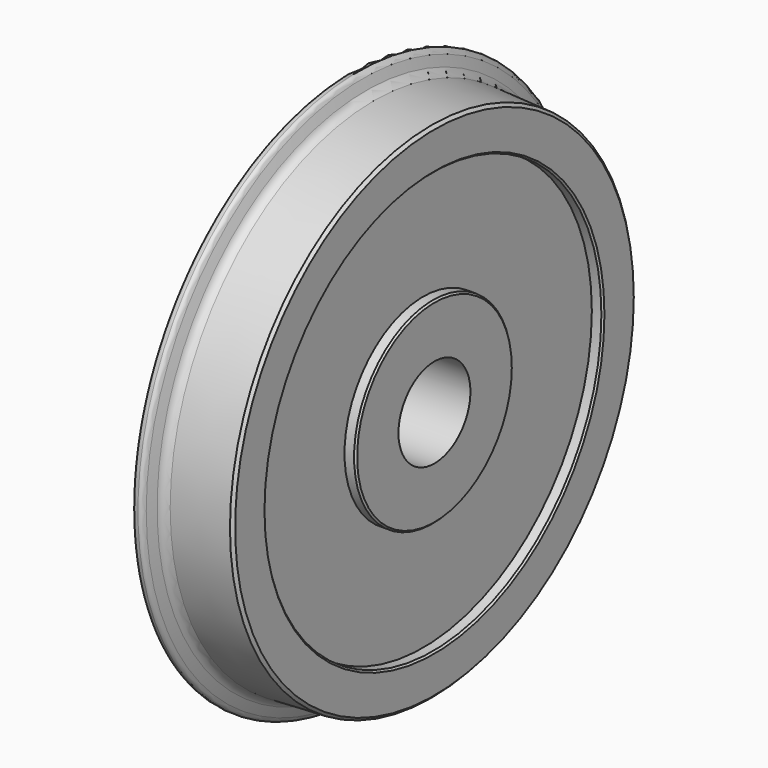
from build123d import *

# Parameters (mm, degrees)
F2_SIZE = 0.5
F4_D    = 16
F5_SIZE = 0.3


with BuildPart() as f1:
    # F0 (on Top) → F1 (revolve)
    with BuildSketch(Plane.XY):
        with BuildLine():
            Line((0, 17.5), (0, 0))
            Line((0, 0), (15, 0))
            Line((15, 0), (15, 17.5))
            Line((15, 17.5), (13, 17.5))
            Line((13, 17.5), (13, 37.5))
            Line((13, 37.5), (15, 37.5))
            Line((15, 37.5), (15, 44.83))
            Line((15, 44.83), (4.26, 45.35))
            ThreePointArc((4.26, 45.35), (3.3848643751, 45.7040621445), (2.84, 46.475))
            Line((2.84, 46.475), (2.26, 48.17))
            ThreePointArc((2.26, 48.17), (1.9775337426, 48.7058161582), (1.44, 48.985))
            ThreePointArc((1.44, 48.985), (0.6922694491, 48.8202067149), (0.28, 48.175))
            Line((0.28, 48.175), (0, 46.6))
            Line((0, 46.6), (0, 37.5))
            Line((0, 37.5), (2, 37.5))
            Line((2, 37.5), (2, 17.5))
            Line((2, 17.5), (0, 17.5))
        make_face()
    revolve(axis=Axis((7.5, 0, 0), (1, 0, 0)))

    # F2
    f2_edges = [f1.edges().sort_by_distance(p)[0] for p in [
        (15, -44.83, 0),
    ]]
    chamfer(f2_edges, length=F2_SIZE)

    # F4 (through all)
    with Locations(Plane(origin=(0, 0, 0), x_dir=(0, 1, 0), z_dir=(-1, 0, 0))):
        with Locations((0, 0)):
            Hole(F4_D / 2)

    # F5
    f5_edges = [f1.edges().sort_by_distance(p)[0] for p in [
        (15, -37.5, 0),
        (15, -17.5, 0),
        (0, -17.5, 0),
        (0, -37.5, 0),
    ]]
    chamfer(f5_edges, length=F5_SIZE)


solid = f1.part
